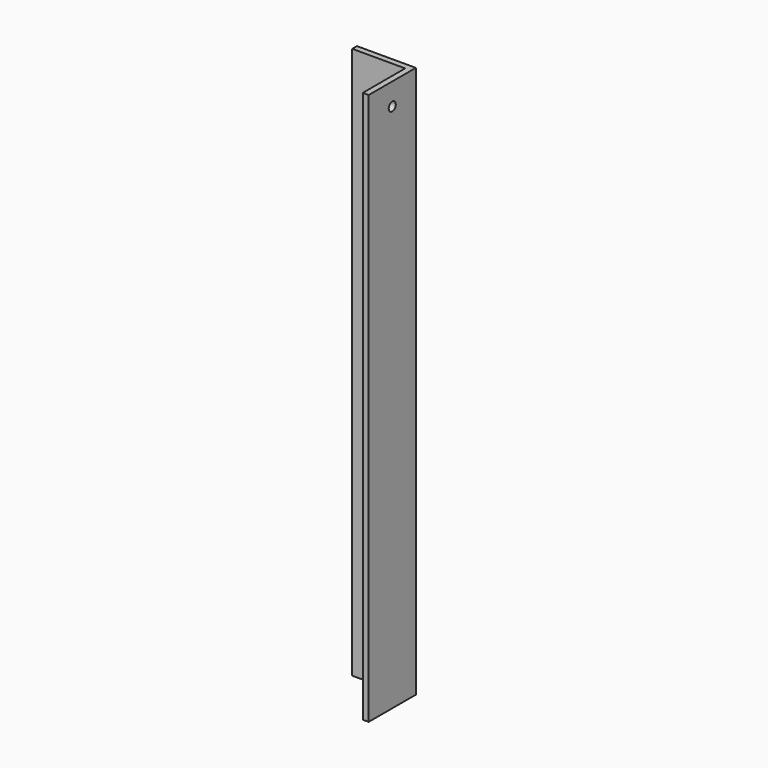
from build123d import *

# Parameters (mm, degrees)
CYLINDER003_R           = 6
CYLINDER003_DEPTH       = 900
CYLINDER003_ROLL_ANGLE  = -90
CYLINDER001_R           = 6
CYLINDER001_DEPTH       = 1300
CYLINDER001_PITCH_ANGLE = 90
BOX007_W                = 80
BOX007_H                = 80
BOX007_DEPTH            = 750
BOX006_W                = 80
BOX006_H                = 80
BOX006_DEPTH            = 750


with BuildPart() as cylinder003:
    # Cylinder003 → Cylinder003 (new body)
    with BuildSketch(Plane.XY):
        Circle(CYLINDER003_R)
    extrude(amount=CYLINDER003_DEPTH)


with BuildPart() as cylinder003_1:
    # Cylinder003 roll: moved
    add(cylinder003.part.rotate(Axis((0, 0, 0), (1, 0, 0)), CYLINDER003_ROLL_ANGLE))


with BuildPart() as cylinder003_2:
    # Cylinder003 placement: moved
    add(cylinder003_1.part.moved(Location((1240, -10, 700))))


with BuildPart() as cylinder001:
    # Cylinder001 → Cylinder001 (new body)
    with BuildSketch(Plane.XY):
        Circle(CYLINDER001_R)
    extrude(amount=CYLINDER001_DEPTH)


with BuildPart() as cylinder001_1:
    # Cylinder001 pitch: moved
    add(cylinder001.part.rotate(Axis((0, 0, 0), (0, 1, 0)), CYLINDER001_PITCH_ANGLE))


with BuildPart() as cylinder001_2:
    # Cylinder001 placement: moved
    add(cylinder001_1.part.moved(Location((-10, 840, 720))))


with BuildPart() as cube007:
    # Box007 → Box007 (new body)
    with BuildSketch(Plane(origin=(1192, 792, 0), x_dir=(1, 0, 0), z_dir=(0, 0, 1))):
        with Locations((40, 40)):
            Rectangle(BOX007_W, BOX007_H)
    extrude(amount=BOX007_DEPTH)


with BuildPart() as cut010:
    # Box006 → Box006 (new body)
    with BuildSketch(Plane(origin=(1200, 800, 0), x_dir=(1, 0, 0), z_dir=(0, 0, 1))):
        with Locations((40, 40)):
            Rectangle(BOX006_W, BOX006_H)
    extrude(amount=BOX006_DEPTH)

    # Cut003: cut Cube007
    add(cube007.part, mode=Mode.SUBTRACT)

    # Cut009: cut Cylinder001
    add(cylinder001_2.part, mode=Mode.SUBTRACT)

    # Cut010: cut Cylinder003
    add(cylinder003_2.part, mode=Mode.SUBTRACT)


solid = cut010.part
